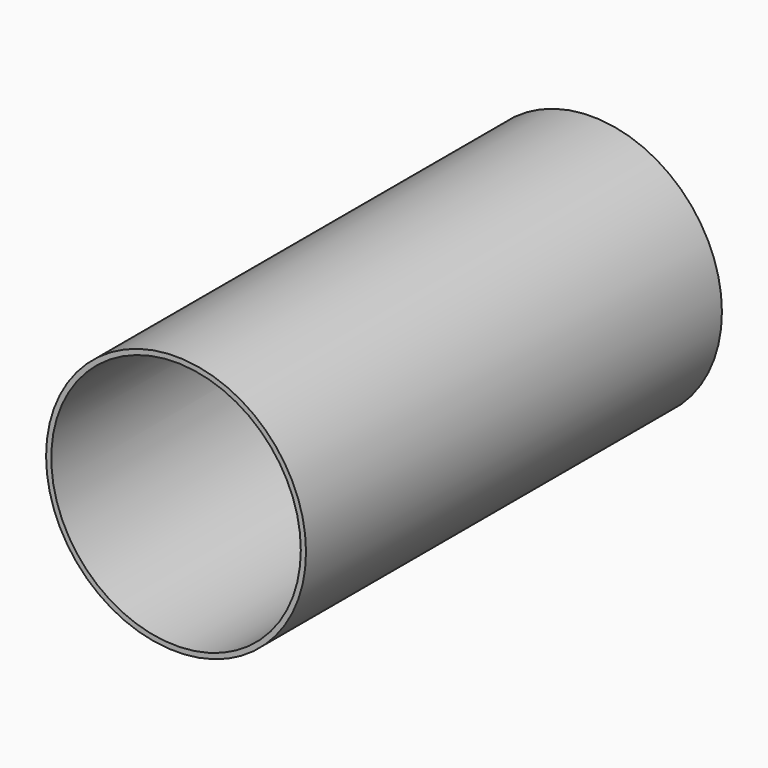
from build123d import *

# Parameters (mm, degrees)
F0_R   = 25
F0_R_2 = 24
F3_R   = 4


with BuildPart() as f2:
    # F2: sweep along a path in F1
    with BuildLine(Plane.YZ) as f2_path:
        Line((0, 0), (-100, 0))
    # F0 (on Front) → F2 (sweep)
    with BuildSketch(Plane.XZ):
        Circle(F0_R)
        Circle(F0_R_2, mode=Mode.SUBTRACT)
    sweep(path=f2_path.line)

    # F5: sweep along a path in F4
    with BuildLine(Plane.XY) as f5_path:
        Line((0, -15), (-40, -15))
    # F3 (on Right) → F5 (sweep, cut)
    with BuildSketch(Plane.YZ):
        with Locations((-15, 0)):
            Circle(F3_R)
    sweep(path=f5_path.line, mode=Mode.SUBTRACT)


solid = f2.part
